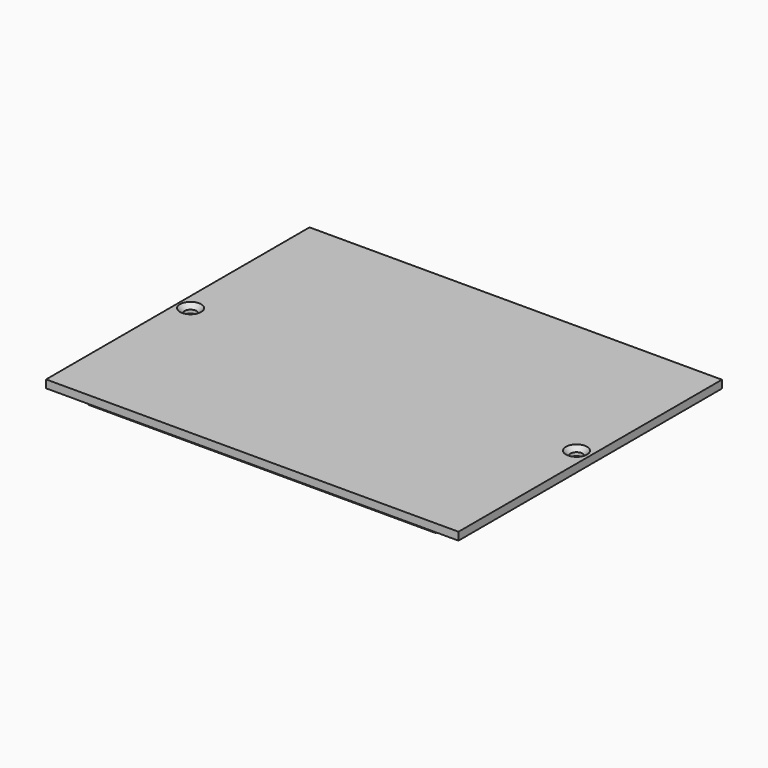
from build123d import *

# Parameters (mm, degrees)
F0_W           = 91.8
F0_H           = 73.3
F0_W_2         = 77.3
F0_H_2         = 67.8
F1_DEPTH       = 1.75
F2_DEPTH       = 3.75
F3_D           = 2.7
F3_CSINK_D     = 4.7
F3_CSINK_ANGLE = 90


with BuildPart() as f1:
    # F0 (on Top) → F1 (new body)
    with BuildSketch(Plane.XY):
        with Locations((-1.1, -1.25)):
            Rectangle(F0_W, F0_H)
        with Locations((-1.1, -1.25)):
            Rectangle(F0_W_2, F0_H_2, mode=Mode.SUBTRACT)
    extrude(amount=-F1_DEPTH)

    # F0 (on Top) → F2 (join)
    with BuildSketch(Plane.XY):
        with Locations((-1.1, -1.25)):
            Rectangle(F0_W_2, F0_H_2)
    extrude(amount=-F2_DEPTH)

    # F3 (through all)
    with Locations(Plane.XY):
        with Locations((-44.15, -1.25), (41.75, -1.25)):
            CounterSinkHole(F3_D / 2, F3_CSINK_D / 2, counter_sink_angle=F3_CSINK_ANGLE)


solid = f1.part
